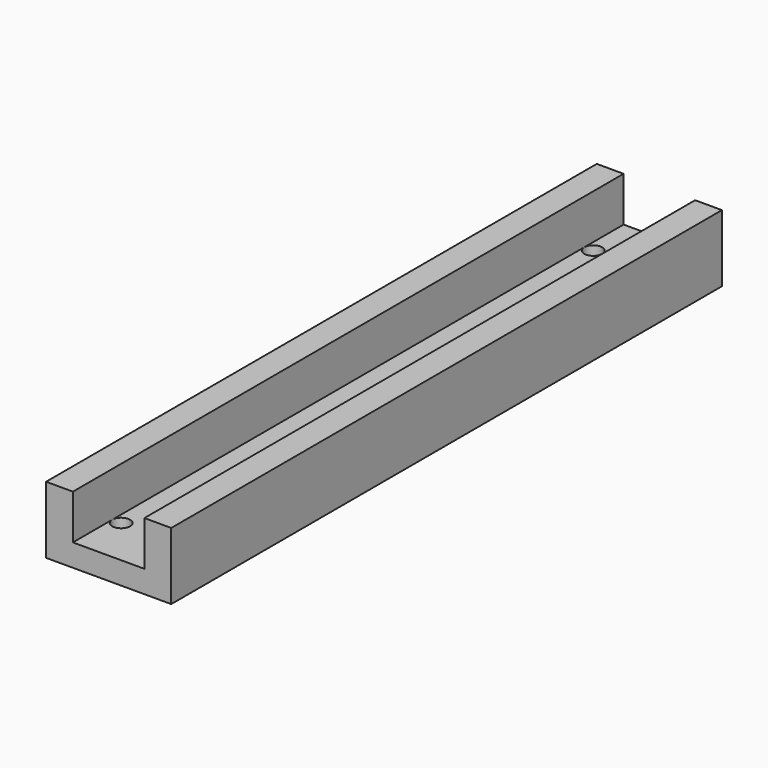
from build123d import *

# Parameters (mm, degrees)
F1_DEPTH = 77
F2_R     = 1
F3_DEPTH = 25


with BuildPart() as f1:
    # F0 (on Front) → F1 (new body)
    with BuildSketch(Plane.XZ):
        Polygon((3, 7.5), (0, 7.5), (0, 0), (14, 0), (14, 7.5), (11, 7.5), (11, 2.5), (3, 2.5), align=None)
    extrude(amount=F1_DEPTH)

    # F2 (on face) → F3 (cut)
    with BuildSketch(Plane(origin=(0, 0, 0), x_dir=(1, 0, 0), z_dir=(0, 0, -1))):
        with Locations((10, 5.5)):
            Circle(F2_R)
        with Locations((4, 5.5)):
            Circle(F2_R)
        with Locations((10, 71.5)):
            Circle(F2_R)
        with Locations((4, 71.5)):
            Circle(F2_R)
    extrude(amount=-F3_DEPTH, mode=Mode.SUBTRACT)


solid = f1.part
